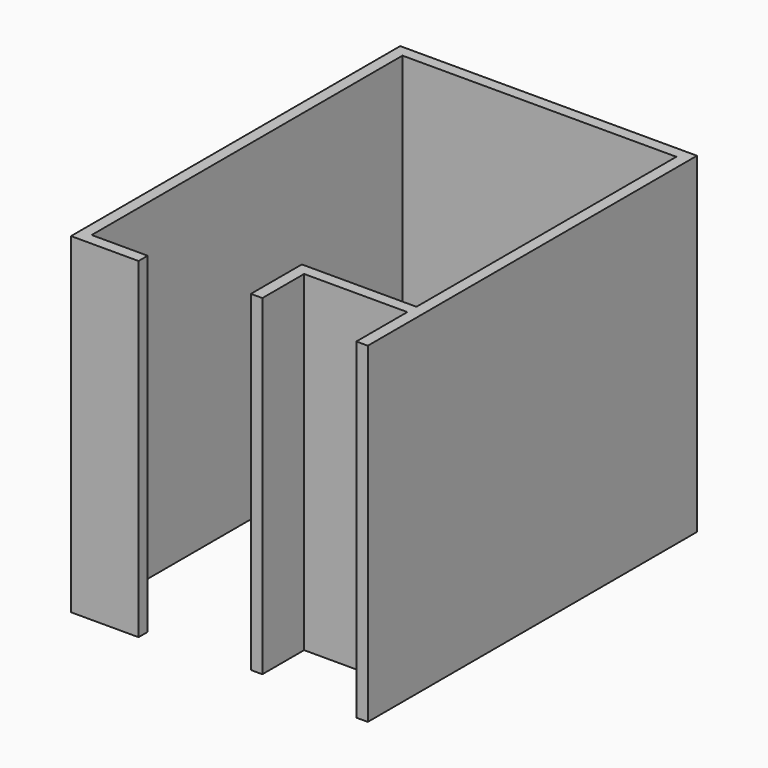
from build123d import *

# Parameters (mm, degrees)
F1_DEPTH = 2600


with BuildPart() as f1:
    # F0 (on Top) → F1 (new body)
    with BuildSketch(Plane.XY):
        Polygon((45, -45), (2195, -45), (2195, -2595), (1295, -2595), (1295, -3095), (1385, -3095), (1385, -2685), (2195, -2685), (2195, -3185), (2285, -3185), (2285, 45), (-45, 45), (-45, -3185), (485, -3185), (485, -3095), (45, -3095), align=None)
    extrude(amount=F1_DEPTH)


solid = f1.part
